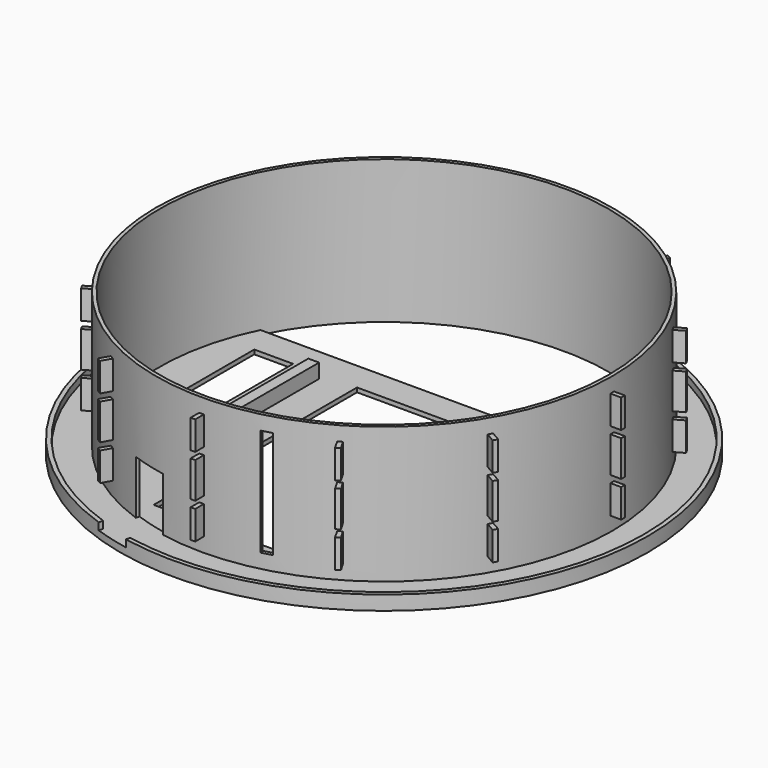
from build123d import *

# Parameters (mm, degrees)
F0_R          = 73.662
F0_R_2        = 62.662
F1_DEPTH      = 2
F2_R          = 63.662
F2_R_2        = 62.662
F3_DEPTH      = 38
F4_R          = 73.662
F4_R_2        = 72.462
F5_DEPTH      = 2
F7_W          = 3
F7_H          = 10
F9_ANGLE_BACK = 0.56243
F9_ANGLE      = 1.12486
F7_H_2        = 8
F10_COUNT     = 12
F13_W         = 3
F13_H         = 30
F14_DEPTH     = 1.0189560373
F16_W         = 10
F16_H         = 15
F17_DEPTH     = 12.5
F19_DEPTH     = 1.2
F20_W         = 3
F20_H         = 50
F21_DEPTH     = 4
F22_W         = 46.0009929361
F22_H         = 70.9400847554
F22_W_2       = 10.8484067023
F22_H_2       = 45.587696135
F23_DEPTH     = 1.2


with BuildPart() as f1:
    # F0 (on Top) → F1 (new body)
    with BuildSketch(Plane.XY):
        Circle(F0_R)
        Circle(F0_R_2, mode=Mode.SUBTRACT)
    extrude(amount=F1_DEPTH)

    # F2 (on face) → F3 (join)
    with BuildSketch(Plane.XY.offset(2)):
        Circle(F2_R)
        Circle(F2_R_2, mode=Mode.SUBTRACT)
    extrude(amount=F3_DEPTH)

    # F4 (on face) → F5 (join)
    with BuildSketch(Plane.XY.offset(2)):
        Circle(F4_R)
        Circle(F4_R_2, mode=Mode.SUBTRACT)
    extrude(amount=F5_DEPTH)

    # F13 (on line) → F14 (cut, through all)
    with BuildSketch(Plane(origin=(16.4769380493, -61.4927699532, 0), x_dir=(-0.9659258263, -0.2588190451, 0), z_dir=(-0.2588190451, 0.9659258263, 0))):
        with Locations((0, 21)):
            Rectangle(F13_W, F13_H)
    extrude(amount=F14_DEPTH, mode=Mode.SUBTRACT)

    # F16 (on line) → F17 (cut, symmetric)
    with BuildSketch(Plane(origin=(-16.4769380493, -61.4927699532, 0), x_dir=(-0.9659258263, 0.2588190451, 0), z_dir=(0.2588190451, 0.9659258263, 0))):
        with Locations((0, 9.5)):
            Rectangle(F16_W, F16_H)
    extrude(amount=F17_DEPTH, both=True, mode=Mode.SUBTRACT)

    # F18 (on Top) → F19 (join)
    with BuildSketch(Plane.XY):
        with BuildLine():
            Line((56.3840402951, 27.338), (-56.3840402951, 27.338))
            ThreePointArc((-56.3840402951, 27.338), (0, -62.662), (56.3840402951, 27.338))
        make_face()
    extrude(amount=F19_DEPTH)

    # F20 (on face) → F21 (join)
    with BuildSketch(Plane.XY.offset(1.2)):
        with Locations((-33.5, -7.662)):
            Rectangle(F20_W, F20_H)
        with Locations((33.5, -7.662)):
            Rectangle(F20_W, F20_H)
    extrude(amount=F21_DEPTH)

    # F22 (on face) → F23 (cut, through all)
    with BuildSketch(Plane.XY.offset(1.2)):
        with Locations((0, -16.1500237882)):
            Rectangle(F22_W, F22_H)
        with Locations((-46.2466198951, -3.473829478)):
            Rectangle(F22_W_2, F22_H_2)
        with Locations((46.2466198951, -3.473829478)):
            Rectangle(F22_W_2, F22_H_2)
    extrude(amount=-F23_DEPTH, mode=Mode.SUBTRACT)


with BuildPart() as f9:
    # F7 (on Front) → F9 (revolve)
    with BuildSketch(Plane.XZ, mode=Mode.PRIVATE) as f9_sk:
        with Locations((-65.162, 21)):
            Rectangle(F7_W, F7_H)
    revolve(f9_sk.sketch.rotate(Axis((0, 0, 45.3467667103), (0, 0, 1)), -F9_ANGLE_BACK), axis=Axis((0, 0, 45.3467667103), (0, 0, 1)), revolution_arc=F9_ANGLE)


with BuildPart() as f9b:
    # F7 (on Front) → F9, piece 2 (revolve)
    with BuildSketch(Plane.XZ, mode=Mode.PRIVATE) as f9_sk:
        with Locations((-65.162, 32)):
            Rectangle(F7_W, F7_H_2)
    revolve(f9_sk.sketch.rotate(Axis((0, 0, 45.3467667103), (0, 0, 1)), -F9_ANGLE_BACK), axis=Axis((0, 0, 45.3467667103), (0, 0, 1)), revolution_arc=F9_ANGLE)


with BuildPart() as f9c:
    # F7 (on Front) → F9, piece 3 (revolve)
    with BuildSketch(Plane.XZ, mode=Mode.PRIVATE) as f9_sk:
        with Locations((-65.162, 10)):
            Rectangle(F7_W, F7_H_2)
    revolve(f9_sk.sketch.rotate(Axis((0, 0, 45.3467667103), (0, 0, 1)), -F9_ANGLE_BACK), axis=Axis((0, 0, 45.3467667103), (0, 0, 1)), revolution_arc=F9_ANGLE)


with BuildPart() as f10_1:
    # F10: instance of F9b
    add(f9b.part.rotate(Axis((0, 0, 45.3467667103), (0, 0, 1)), 1 * 360 / F10_COUNT))


with BuildPart() as f10_2:
    # F10: instance of F9b
    add(f9b.part.rotate(Axis((0, 0, 45.3467667103), (0, 0, 1)), 2 * 360 / F10_COUNT))


with BuildPart() as f10_3:
    # F10: instance of F9b
    add(f9b.part.rotate(Axis((0, 0, 45.3467667103), (0, 0, 1)), 3 * 360 / F10_COUNT))


with BuildPart() as f10_4:
    # F10: instance of F9b
    add(f9b.part.rotate(Axis((0, 0, 45.3467667103), (0, 0, 1)), 4 * 360 / F10_COUNT))


with BuildPart() as f10_5:
    # F10: instance of F9b
    add(f9b.part.rotate(Axis((0, 0, 45.3467667103), (0, 0, 1)), 5 * 360 / F10_COUNT))


with BuildPart() as f10_6:
    # F10: instance of F9b
    add(f9b.part.rotate(Axis((0, 0, 45.3467667103), (0, 0, 1)), 6 * 360 / F10_COUNT))


with BuildPart() as f10_7:
    # F10: instance of F9b
    add(f9b.part.rotate(Axis((0, 0, 45.3467667103), (0, 0, 1)), 7 * 360 / F10_COUNT))


with BuildPart() as f10_8:
    # F10: instance of F9b
    add(f9b.part.rotate(Axis((0, 0, 45.3467667103), (0, 0, 1)), 8 * 360 / F10_COUNT))


with BuildPart() as f10_9:
    # F10: instance of F9b
    add(f9b.part.rotate(Axis((0, 0, 45.3467667103), (0, 0, 1)), 9 * 360 / F10_COUNT))


with BuildPart() as f10_10:
    # F10: instance of F9b
    add(f9b.part.rotate(Axis((0, 0, 45.3467667103), (0, 0, 1)), 10 * 360 / F10_COUNT))


with BuildPart() as f10_11:
    # F10: instance of F9b
    add(f9b.part.rotate(Axis((0, 0, 45.3467667103), (0, 0, 1)), 11 * 360 / F10_COUNT))


with BuildPart() as f10_12:
    # F10: instance of F9
    add(f9.part.rotate(Axis((0, 0, 45.3467667103), (0, 0, 1)), 1 * 360 / F10_COUNT))


with BuildPart() as f10_13:
    # F10: instance of F9
    add(f9.part.rotate(Axis((0, 0, 45.3467667103), (0, 0, 1)), 2 * 360 / F10_COUNT))


with BuildPart() as f10_14:
    # F10: instance of F9
    add(f9.part.rotate(Axis((0, 0, 45.3467667103), (0, 0, 1)), 3 * 360 / F10_COUNT))


with BuildPart() as f10_15:
    # F10: instance of F9
    add(f9.part.rotate(Axis((0, 0, 45.3467667103), (0, 0, 1)), 4 * 360 / F10_COUNT))


with BuildPart() as f10_16:
    # F10: instance of F9
    add(f9.part.rotate(Axis((0, 0, 45.3467667103), (0, 0, 1)), 5 * 360 / F10_COUNT))


with BuildPart() as f10_17:
    # F10: instance of F9
    add(f9.part.rotate(Axis((0, 0, 45.3467667103), (0, 0, 1)), 6 * 360 / F10_COUNT))


with BuildPart() as f10_18:
    # F10: instance of F9
    add(f9.part.rotate(Axis((0, 0, 45.3467667103), (0, 0, 1)), 7 * 360 / F10_COUNT))


with BuildPart() as f10_19:
    # F10: instance of F9
    add(f9.part.rotate(Axis((0, 0, 45.3467667103), (0, 0, 1)), 8 * 360 / F10_COUNT))


with BuildPart() as f10_20:
    # F10: instance of F9
    add(f9.part.rotate(Axis((0, 0, 45.3467667103), (0, 0, 1)), 9 * 360 / F10_COUNT))


with BuildPart() as f10_21:
    # F10: instance of F9
    add(f9.part.rotate(Axis((0, 0, 45.3467667103), (0, 0, 1)), 10 * 360 / F10_COUNT))


with BuildPart() as f10_22:
    # F10: instance of F9
    add(f9.part.rotate(Axis((0, 0, 45.3467667103), (0, 0, 1)), 11 * 360 / F10_COUNT))


with BuildPart() as f10_23:
    # F10: instance of F9c
    add(f9c.part.rotate(Axis((0, 0, 45.3467667103), (0, 0, 1)), 1 * 360 / F10_COUNT))


with BuildPart() as f10_24:
    # F10: instance of F9c
    add(f9c.part.rotate(Axis((0, 0, 45.3467667103), (0, 0, 1)), 2 * 360 / F10_COUNT))


with BuildPart() as f10_25:
    # F10: instance of F9c
    add(f9c.part.rotate(Axis((0, 0, 45.3467667103), (0, 0, 1)), 3 * 360 / F10_COUNT))


with BuildPart() as f10_26:
    # F10: instance of F9c
    add(f9c.part.rotate(Axis((0, 0, 45.3467667103), (0, 0, 1)), 4 * 360 / F10_COUNT))


with BuildPart() as f10_27:
    # F10: instance of F9c
    add(f9c.part.rotate(Axis((0, 0, 45.3467667103), (0, 0, 1)), 5 * 360 / F10_COUNT))


with BuildPart() as f10_28:
    # F10: instance of F9c
    add(f9c.part.rotate(Axis((0, 0, 45.3467667103), (0, 0, 1)), 6 * 360 / F10_COUNT))


with BuildPart() as f10_29:
    # F10: instance of F9c
    add(f9c.part.rotate(Axis((0, 0, 45.3467667103), (0, 0, 1)), 7 * 360 / F10_COUNT))


with BuildPart() as f10_30:
    # F10: instance of F9c
    add(f9c.part.rotate(Axis((0, 0, 45.3467667103), (0, 0, 1)), 8 * 360 / F10_COUNT))


with BuildPart() as f10_31:
    # F10: instance of F9c
    add(f9c.part.rotate(Axis((0, 0, 45.3467667103), (0, 0, 1)), 9 * 360 / F10_COUNT))


with BuildPart() as f10_32:
    # F10: instance of F9c
    add(f9c.part.rotate(Axis((0, 0, 45.3467667103), (0, 0, 1)), 10 * 360 / F10_COUNT))


with BuildPart() as f10_33:
    # F10: instance of F9c
    add(f9c.part.rotate(Axis((0, 0, 45.3467667103), (0, 0, 1)), 11 * 360 / F10_COUNT))


solid = Compound([f1.part, f9.part, f9b.part, f9c.part, f10_1.part, f10_2.part, f10_3.part, f10_4.part, f10_5.part, f10_6.part, f10_7.part, f10_8.part, f10_9.part, f10_10.part, f10_11.part, f10_12.part, f10_13.part, f10_14.part, f10_15.part, f10_16.part, f10_17.part, f10_18.part, f10_19.part, f10_20.part, f10_21.part, f10_22.part, f10_23.part, f10_24.part, f10_25.part, f10_26.part, f10_27.part, f10_28.part, f10_29.part, f10_30.part, f10_31.part, f10_32.part, f10_33.part])
